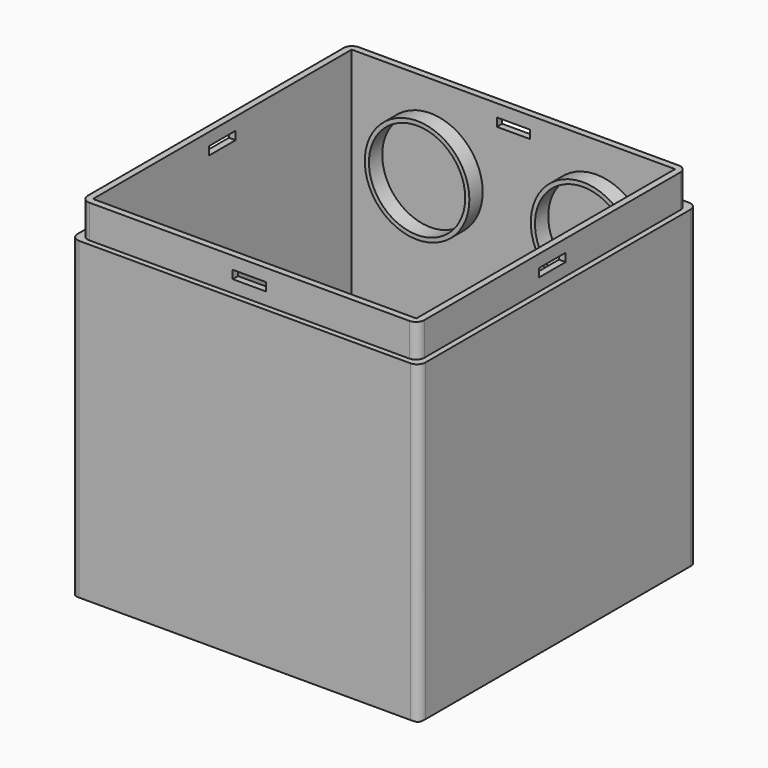
from build123d import *

# Parameters (mm, degrees)
F0_W      = 68.199
F0_H      = 68.199
F1_DEPTH  = 66.6115
F2_R      = 1.5875
F3_T      = -3.175
F4_W      = 3.175
F4_H      = 3.175
F4_W_2    = 6.35
F4_H_2    = 6.35
F5_DEPTH  = 25.4
F6_R      = 1.5875
F7_DEPTH  = 6.35
F8_W      = 74.20966
F8_H      = 75.78341
F9_DEPTH  = 6.35
F10_W     = 6.35
F10_H     = 1.5875
F11_DEPTH = 66.295
F12_W     = 6.35
F12_H     = 1.5875
F13_DEPTH = 66.295
F14_R     = 10.00125
F14_R_2   = 9.2075
F15_DEPTH = 61.849
F16_W     = 55.499
F16_H     = 55.499
F17_DEPTH = 38.1
F18_W     = 61.849
F18_H     = 61.849
F19_DEPTH = 0.79375
F20_W     = 68.199
F20_H     = 68.199
F21_DEPTH = 66.6125


with BuildPart() as f1:
    # F0 (on Top) → F1 (new body)
    with BuildSketch(Plane.XY):
        Rectangle(F0_W, F0_H)
    extrude(amount=F1_DEPTH)

    # F2
    f2_edges = [f1.edges().sort_by_distance(p)[0] for p in [
        (-34.0995, 34.0995, 33.30575),
        (-34.0995, 0, 0),
        (-34.0995, -34.0995, 33.30575),
        (34.0995, -34.0995, 33.30575),
        (0, -34.0995, 0),
        (34.0995, 0, 0),
        (0, 34.0995, 0),
        (34.0995, 34.0995, 33.30575),
    ]]
    fillet(f2_edges, radius=F2_R)

    # F3
    f3_openings = [f1.faces().sort_by_distance(p)[0] for p in [
        (0, 0, 66.6115),
    ]]
    offset(amount=F3_T, openings=f3_openings)

    # F4 (on face) → F5 (cut)
    with BuildSketch(Plane.XY.offset(3.175)):
        with Locations((-29.337, 29.337)):
            Rectangle(F4_W, F4_H)
        with Locations((29.337, 29.337)):
            Rectangle(F4_W, F4_H)
        with Locations((-29.337, -29.337)):
            Rectangle(F4_W, F4_H)
        with Locations((29.337, -29.337)):
            Rectangle(F4_W, F4_H)
        with Locations((0, 29.337)):
            Rectangle(F4_W_2, F4_H)
        with Locations((-29.337, 0)):
            Rectangle(F4_W, F4_H_2)
        with Locations((29.337, 0)):
            Rectangle(F4_W, F4_H_2)
        with Locations((0, -29.337)):
            Rectangle(F4_W_2, F4_H)
    extrude(amount=F5_DEPTH, mode=Mode.SUBTRACT)

    # F6 (on face) → F7 (cut)
    with BuildSketch(Plane(origin=(0, 0, 0), x_dir=(1, 0, 0), z_dir=(0, 0, -1))):
        Circle(F6_R)
    extrude(amount=-F7_DEPTH, mode=Mode.SUBTRACT)

    # F8 (on face) → F9 (cut)
    with BuildSketch(Plane.XY.offset(66.6115)):
        Rectangle(F8_W, F8_H)
        with BuildLine():
            Line((-30.607, 32.1945), (30.607, 32.1945))
            ThreePointArc((30.607, 32.1945), (31.729532, 31.729532), (32.1945, 30.607))
            Line((32.1945, 30.607), (32.1945, -30.607))
            ThreePointArc((32.1945, -30.607), (31.729532, -31.729532), (30.607, -32.1945))
            Line((30.607, -32.1945), (-30.607, -32.1945))
            ThreePointArc((-30.607, -32.1945), (-31.729532, -31.729532), (-32.1945, -30.607))
            Line((-32.1945, -30.607), (-32.1945, 30.607))
            ThreePointArc((-32.1945, 30.607), (-31.729532, 31.729532), (-30.607, 32.1945))
        make_face(mode=Mode.SUBTRACT)
    extrude(amount=-F9_DEPTH, mode=Mode.SUBTRACT)

    # F10 (on face) → F11 (cut, through all)
    with BuildSketch(Plane.XZ.offset(32.1945)):
        with Locations((0, 63.4365)):
            Rectangle(F10_W, F10_H)
    extrude(amount=-F11_DEPTH, mode=Mode.SUBTRACT)

    # F12 (on face) → F13 (cut, through all)
    with BuildSketch(Plane.YZ.offset(32.1945)):
        with Locations((0, 63.4365)):
            Rectangle(F12_W, F12_H)
    extrude(amount=-F13_DEPTH, mode=Mode.SUBTRACT)

    # F14 (on face) → F15 (join, through all)
    with BuildSketch(Plane.XZ.offset(-30.9245)):
        with Locations((-15.875, 50.8)):
            Circle(F14_R)
        with Locations((-15.875, 50.8)):
            Circle(F14_R_2, mode=Mode.SUBTRACT)
        with Locations((15.875, 50.8)):
            Circle(F14_R)
        with Locations((15.875, 50.8)):
            Circle(F14_R_2, mode=Mode.SUBTRACT)
    extrude(amount=F15_DEPTH)

    # F16 (on face) → F17 (cut)
    with BuildSketch(Plane.XY.offset(66.6115)):
        Rectangle(F16_W, F16_H)
    extrude(amount=-F17_DEPTH, mode=Mode.SUBTRACT)

    # F18 (on face) → F19 (cut)
    with BuildSketch(Plane.XY.offset(3.175)):
        Rectangle(F18_W, F18_H)
    extrude(amount=-F19_DEPTH, mode=Mode.SUBTRACT)

    # F20 (on face) → F21 (cut, through all)
    with BuildSketch(Plane.XY.offset(66.6115)):
        Rectangle(F20_W, F20_H)
        with BuildLine():
            Line((-31.6865, 33.274), (31.6865, 33.274))
            ThreePointArc((31.6865, 33.274), (32.809032, 32.809032), (33.274, 31.6865))
            Line((33.274, 31.6865), (33.274, -31.6865))
            ThreePointArc((33.274, -31.6865), (32.809032, -32.809032), (31.6865, -33.274))
            Line((31.6865, -33.274), (-31.6865, -33.274))
            ThreePointArc((-31.6865, -33.274), (-32.809032, -32.809032), (-33.274, -31.6865))
            Line((-33.274, -31.6865), (-33.274, 31.6865))
            ThreePointArc((-33.274, 31.6865), (-32.809032, 32.809032), (-31.6865, 33.274))
        make_face(mode=Mode.SUBTRACT)
    extrude(amount=-F21_DEPTH, mode=Mode.SUBTRACT)


solid = f1.part
